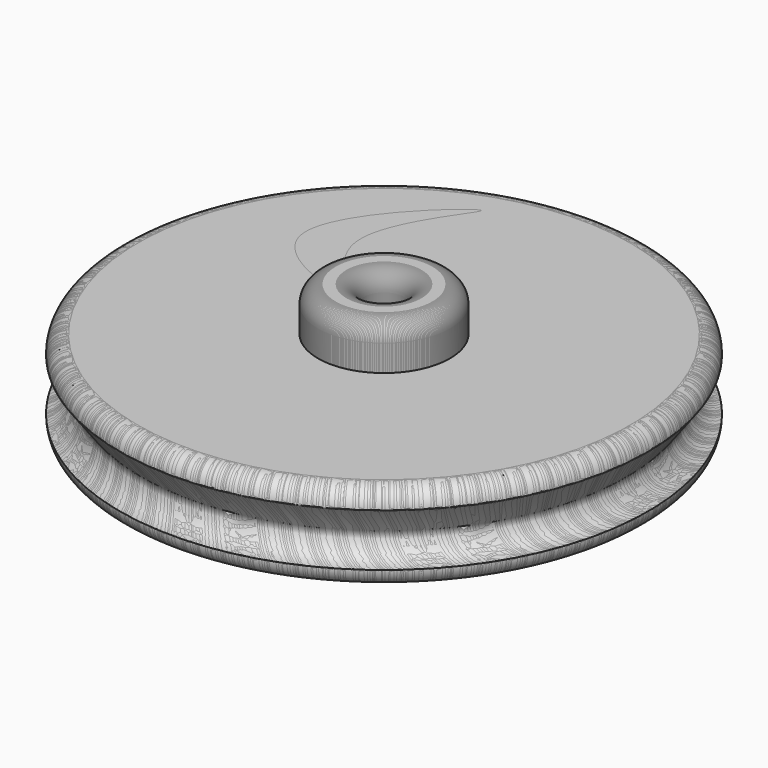
from build123d import *

# Parameters (mm, degrees)
F0_R      = 76.2
F0_R_2    = 19.05
F1_DEPTH  = 25.4
F2_DEPTH  = 25.4
F0_R_3    = 5.715
F3_DEPTH  = 38.1
F4_DEPTH  = 25.4
F5_R      = 5.08
F6_R      = 5.08
F7_R      = 5.08
F8_R      = 7.5579824653
F10_R     = 5.08
F12_DEPTH = 25.4
F13_COUNT = 8


with BuildPart() as f1:
    # F0 (on Top) → F1 (new body)
    with BuildSketch(Plane.XY):
        with Locations((42.4490347505, 47.3371073604)):
            Circle(F0_R)
        with Locations((42.4490347505, 47.3371073604)):
            Circle(F0_R_2, mode=Mode.SUBTRACT)
    extrude(amount=F1_DEPTH)

    # F0 (on Top) → F2 (join)
    with BuildSketch(Plane.XY):
        with Locations((42.4490347505, 47.3371073604)):
            Circle(F0_R)
        with Locations((42.4490347505, 47.3371073604)):
            Circle(F0_R_2, mode=Mode.SUBTRACT)
    extrude(amount=F2_DEPTH)

    # F0 (on Top) → F3 (join)
    with BuildSketch(Plane.XY):
        with Locations((42.4490347505, 47.3371073604)):
            Circle(F0_R_2)
        with Locations((42.4490347505, 47.3371073604)):
            Circle(F0_R_3, mode=Mode.SUBTRACT)
    extrude(amount=F3_DEPTH)

    # F0 (on Top) → F4 (join)
    with BuildSketch(Plane.XY):
        with Locations((42.4490347505, 47.3371073604)):
            Circle(F0_R)
        with Locations((42.4490347505, 47.3371073604)):
            Circle(F0_R_2, mode=Mode.SUBTRACT)
    extrude(amount=F4_DEPTH)

    # F5
    f5_edges = [f1.edges().sort_by_distance(p)[0] for p in [
        (23.399035, 47.337107, 38.1),
    ]]
    fillet(f5_edges, radius=F5_R)

    # F6
    f6_edges = [f1.edges().sort_by_distance(p)[0] for p in [
        (-33.750965, 47.337107, 25.4),
    ]]
    fillet(f6_edges, radius=F6_R)

    # F7
    f7_edges = [f1.edges().sort_by_distance(p)[0] for p in [
        (-33.750965, 47.337107, 0),
    ]]
    fillet(f7_edges, radius=F7_R)

    # F8 (on Right) → F9 (revolve, cut)
    with BuildSketch(Plane.YZ):
        with Locations((-15.7526245346, 12.6712428614)):
            Circle(F8_R)
    revolve(axis=Axis((42.4490347505, 47.3371073604, 25.4), (0, 0, 1)), mode=Mode.SUBTRACT)

    # F10
    f10_edges = [f1.edges().sort_by_distance(p)[0] for p in [
        (36.734035, 47.337107, 38.1),
        (36.734035, 47.337107, 0),
    ]]
    fillet(f10_edges, radius=F10_R)

    # F11 (on face) → F12 (cut)
    with BuildSketch(Plane.XY.offset(25.4)):
        with BuildLine():
            add(Edge.make_bspline(
                [(-15.1986861601, 75.7813900709), (-16.750761822, 74.5515826464), (-21.1545415689, 15.173455394), (37.7115573591, 47.201339371), (-12.5312893357, 34.8234727427), (-13.8557234694, 76.8455041012), (-15.1986861601, 75.7813900709)],
                knots=[0, 0, 0, 0, 0.2890488242, 0.528914481, 0.7498950623, 1, 1, 1, 1], degree=3))
        make_face()
    extrude(amount=-F12_DEPTH, mode=Mode.SUBTRACT)


with BuildPart() as f13_1:
    # F13: instance of F1
    add(f1.part.rotate(Axis((42.4490347505, 47.3371073604, 33.02), (0, 0, 1)), 1 * 360 / F13_COUNT))


with BuildPart() as f13_2:
    # F13: instance of F1
    add(f1.part.rotate(Axis((42.4490347505, 47.3371073604, 33.02), (0, 0, 1)), 2 * 360 / F13_COUNT))


with BuildPart() as f13_3:
    # F13: instance of F1
    add(f1.part.rotate(Axis((42.4490347505, 47.3371073604, 33.02), (0, 0, 1)), 3 * 360 / F13_COUNT))


with BuildPart() as f13_4:
    # F13: instance of F1
    add(f1.part.rotate(Axis((42.4490347505, 47.3371073604, 33.02), (0, 0, 1)), 4 * 360 / F13_COUNT))


with BuildPart() as f13_5:
    # F13: instance of F1
    add(f1.part.rotate(Axis((42.4490347505, 47.3371073604, 33.02), (0, 0, 1)), 5 * 360 / F13_COUNT))


with BuildPart() as f13_6:
    # F13: instance of F1
    add(f1.part.rotate(Axis((42.4490347505, 47.3371073604, 33.02), (0, 0, 1)), 6 * 360 / F13_COUNT))


with BuildPart() as f13_7:
    # F13: instance of F1
    add(f1.part.rotate(Axis((42.4490347505, 47.3371073604, 33.02), (0, 0, 1)), 7 * 360 / F13_COUNT))


solid = Compound([f1.part, f13_1.part, f13_2.part, f13_3.part, f13_4.part, f13_5.part, f13_6.part, f13_7.part])
